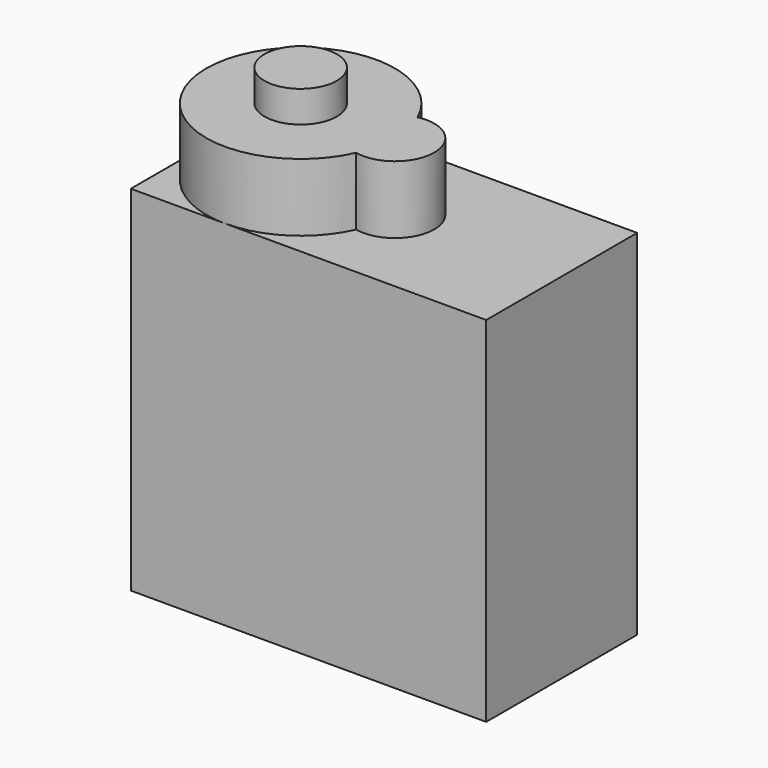
from build123d import *

# Parameters (mm, degrees)
F0_W     = 22.6
F0_H     = 12
F1_DEPTH = 22.5
F2_R     = 6
F3_DEPTH = 4.3
F4_R     = 2.3
F5_DEPTH = 2
F6_R     = 2.5
F7_DEPTH = 5


with BuildPart() as f1:
    # F0 (on Top) → F1 (new body)
    with BuildSketch(Plane.XY):
        Rectangle(F0_W, F0_H)
    extrude(amount=F1_DEPTH)

    # F2 (on face) → F3 (join)
    with BuildSketch(Plane.XY.offset(22.5)):
        with Locations((-5.3, 0)):
            Circle(F2_R)
    extrude(amount=F3_DEPTH)

    # F4 (on face) → F5 (join)
    with BuildSketch(Plane.XY.offset(26.8)):
        with Locations((-5.3, 0)):
            Circle(F4_R)
    extrude(amount=F5_DEPTH)

    # F6 (on face) → F7 (join)
    with BuildSketch(Plane.XY.offset(26.8)):
        with Locations((0.7, 0)):
            Circle(F6_R)
    extrude(amount=-F7_DEPTH)


solid = f1.part
